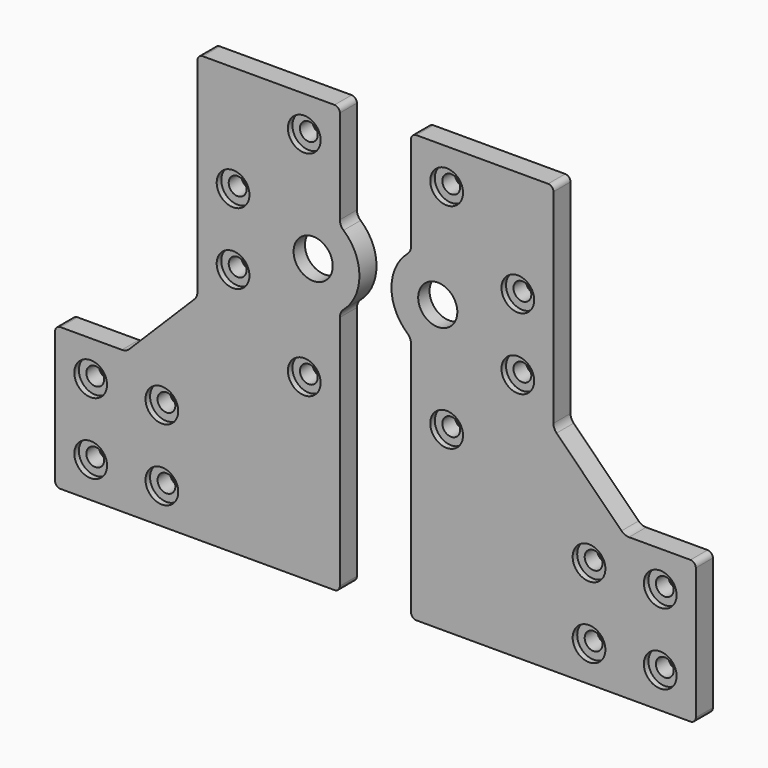
from build123d import *

# Parameters (mm, degrees)
F0_R     = 4.6
F0_R_2   = 8.05
F0_R_3   = 2.5
F0_R_4   = 5.5
F1_DEPTH = 6
F2_DEPTH = 1.6
F3_START = -4
F3_DEPTH = 2
F4_R     = 1.5
F5_R     = 3


with BuildPart() as f1:
    # F0 (on Front) → F1 (new body)
    with BuildSketch(Plane.XZ):
        with BuildLine():
            Line((-90, -40), (-90, -80))
            Line((-90, -80), (-10, -80))
            Line((-10, -80), (-10, -10.6183802908))
            ThreePointArc((-10, -10.6183802908), (-4.5, 0), (-10, 10.6183802908))
            Line((-10, 10.6183802908), (-10, 40))
            Line((-10, 40), (-50, 40))
            Line((-50, 40), (-50, -20))
            Line((-50, -20), (-70, -40))
            Line((-70, -40), (-90, -40))
        make_face()
        with Locations((-80, -70)):
            Circle(F0_R, mode=Mode.SUBTRACT)
        with Locations((-60, -70)):
            Circle(F0_R, mode=Mode.SUBTRACT)
        with Locations((-80, -50)):
            Circle(F0_R, mode=Mode.SUBTRACT)
        with Locations((-60, -50)):
            Circle(F0_R, mode=Mode.SUBTRACT)
        with Locations((-20, -30)):
            Circle(F0_R, mode=Mode.SUBTRACT)
        with Locations((-40, -10)):
            Circle(F0_R, mode=Mode.SUBTRACT)
        with Locations((-17.5, 0)):
            Circle(F0_R_2, mode=Mode.SUBTRACT)
        with Locations((-40, 10)):
            Circle(F0_R, mode=Mode.SUBTRACT)
        with Locations((-20, 30)):
            Circle(F0_R, mode=Mode.SUBTRACT)
        with Locations((-20, 30)):
            Circle(F0_R)
        with Locations((-20, 30)):
            Circle(F0_R_3, mode=Mode.SUBTRACT)
        with Locations((-40, 10)):
            Circle(F0_R)
        with Locations((-40, 10)):
            Circle(F0_R_3, mode=Mode.SUBTRACT)
        with Locations((-40, -10)):
            Circle(F0_R)
        with Locations((-40, -10)):
            Circle(F0_R_3, mode=Mode.SUBTRACT)
        with Locations((-17.5, 0)):
            Circle(F0_R_2)
        with Locations((-17.5, 0)):
            Circle(F0_R_4, mode=Mode.SUBTRACT)
        with Locations((-20, -30)):
            Circle(F0_R)
        with Locations((-20, -30)):
            Circle(F0_R_3, mode=Mode.SUBTRACT)
        with Locations((-60, -50)):
            Circle(F0_R)
        with Locations((-60, -50)):
            Circle(F0_R_3, mode=Mode.SUBTRACT)
        with Locations((-80, -50)):
            Circle(F0_R)
        with Locations((-80, -50)):
            Circle(F0_R_3, mode=Mode.SUBTRACT)
        with Locations((-80, -70)):
            Circle(F0_R)
        with Locations((-80, -70)):
            Circle(F0_R_3, mode=Mode.SUBTRACT)
        with Locations((-60, -70)):
            Circle(F0_R)
        with Locations((-60, -70)):
            Circle(F0_R_3, mode=Mode.SUBTRACT)
    extrude(amount=-F1_DEPTH)

    # F0 (on Front) → F2 (cut)
    with BuildSketch(Plane.XZ):
        with Locations((-20, 30)):
            Circle(F0_R)
        with Locations((-20, 30)):
            Circle(F0_R_3, mode=Mode.SUBTRACT)
        with Locations((-40, 10)):
            Circle(F0_R)
        with Locations((-40, 10)):
            Circle(F0_R_3, mode=Mode.SUBTRACT)
        with Locations((-40, -10)):
            Circle(F0_R)
        with Locations((-40, -10)):
            Circle(F0_R_3, mode=Mode.SUBTRACT)
        with Locations((-20, -30)):
            Circle(F0_R)
        with Locations((-20, -30)):
            Circle(F0_R_3, mode=Mode.SUBTRACT)
        with Locations((-60, -50)):
            Circle(F0_R)
        with Locations((-60, -50)):
            Circle(F0_R_3, mode=Mode.SUBTRACT)
        with Locations((-80, -50)):
            Circle(F0_R)
        with Locations((-80, -50)):
            Circle(F0_R_3, mode=Mode.SUBTRACT)
        with Locations((-80, -70)):
            Circle(F0_R)
        with Locations((-80, -70)):
            Circle(F0_R_3, mode=Mode.SUBTRACT)
        with Locations((-60, -70)):
            Circle(F0_R)
        with Locations((-60, -70)):
            Circle(F0_R_3, mode=Mode.SUBTRACT)
    extrude(amount=-F2_DEPTH, mode=Mode.SUBTRACT)

    # F0 (on Front) → F3 (cut)
    with BuildSketch(Plane.XZ.offset(F3_START)):
        with Locations((-17.5, 0)):
            Circle(F0_R_2)
        with Locations((-17.5, 0)):
            Circle(F0_R_4, mode=Mode.SUBTRACT)
    extrude(amount=-F3_DEPTH, mode=Mode.SUBTRACT)

    # F4
    f4_edges = [f1.edges().sort_by_distance(p)[0] for p in [
        (-10, 3, 40),
        (-50, 3, 40),
        (-90, 3, -40),
        (-90, 3, -80),
        (-10, 3, -80),
    ]]
    fillet(f4_edges, radius=F4_R)

    # F5
    f5_edges = [f1.edges().sort_by_distance(p)[0] for p in [
        (-70, 3, -40),
        (-50, 3, -20),
        (-10, 3, 10.61838),
        (-10, 3, -10.61838),
    ]]
    fillet(f5_edges, radius=F5_R)


with BuildPart() as f6_1:
    # F6: instance of F1
    add(f1.part.mirror(Plane.YZ))


solid = Compound([f1.part, f6_1.part])
